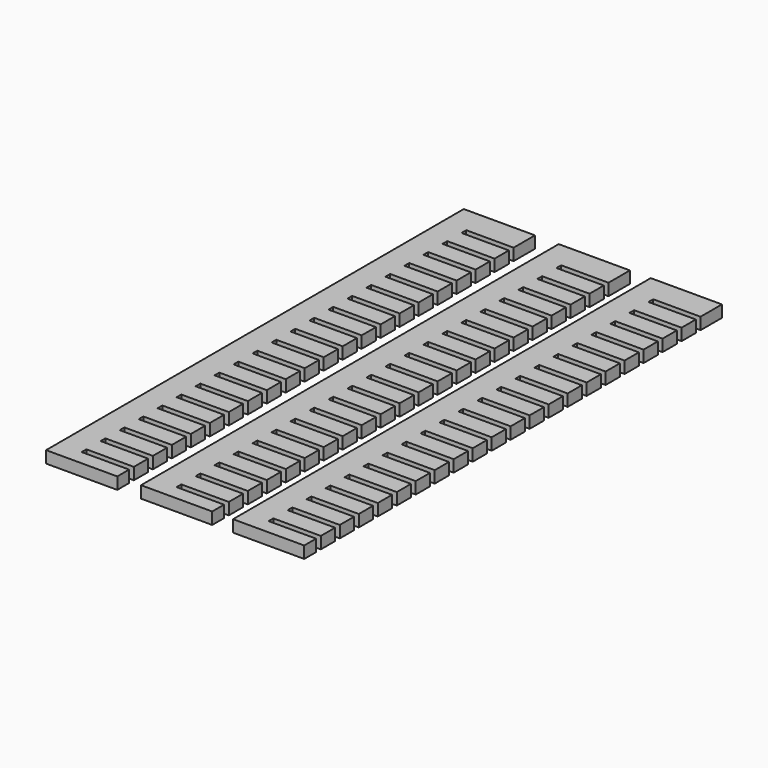
from build123d import *

# Parameters (mm, degrees)
F1_DEPTH = 3.175


with BuildPart() as f1:
    # F0 (on Top) → F1 (new body)
    with BuildSketch(Plane.XY):
        Polygon((0, 139.7), (0, 0), (19.05, 0), (19.05, 3.960731), (6.35, 3.960731), (6.35, 5.548231), (19.05, 5.548231), (19.05, 10.310731), (6.35, 10.310731), (6.35, 11.898231), (19.05, 11.898231), (19.05, 16.660731), (6.35, 16.660731), (6.35, 18.248231), (19.05, 18.248231), (19.05, 23.010731), (6.35, 23.010731), (6.35, 24.598231), (19.05, 24.598231), (19.05, 29.360731), (6.35, 29.360731), (6.35, 30.948231), (19.05, 30.948231), (19.05, 35.710731), (6.35, 35.710731), (6.35, 37.298231), (19.05, 37.298231), (19.05, 42.060731), (6.35, 42.060731), (6.35, 43.648231), (19.05, 43.648231), (19.05, 48.410731), (6.35, 48.410731), (6.35, 49.998231), (19.05, 49.998231), (19.05, 54.760731), (6.35, 54.760731), (6.35, 56.348231), (19.05, 56.348231), (19.05, 61.110731), (6.35, 61.110731), (6.35, 62.698231), (19.05, 62.698231), (19.05, 67.460731), (6.35, 67.460731), (6.35, 69.048231), (19.05, 69.048231), (19.05, 73.810731), (6.35, 73.810731), (6.35, 75.398231), (19.05, 75.398231), (19.05, 80.160731), (6.35, 80.160731), (6.35, 81.748231), (19.05, 81.748231), (19.05, 86.510731), (6.35, 86.510731), (6.35, 88.098231), (19.05, 88.098231), (19.05, 92.860731), (6.35, 92.860731), (6.35, 94.448231), (19.05, 94.448231), (19.05, 99.210731), (6.35, 99.210731), (6.35, 100.798231), (19.05, 100.798231), (19.05, 105.560731), (6.35, 105.560731), (6.35, 107.148231), (19.05, 107.148231), (19.05, 111.910731), (6.35, 111.910731), (6.35, 113.498231), (19.05, 113.498231), (19.05, 118.260731), (6.35, 118.260731), (6.35, 119.848231), (19.05, 119.848231), (19.05, 124.610709), (6.366796, 124.610709), (6.366796, 126.198209), (19.05, 126.198209), (19.05, 130.960687), (6.383592, 130.960687), (6.383592, 132.548187), (19.05, 132.548187), (19.05, 139.7), align=None)
        Polygon((25.4, 139.7), (25.4, 0), (44.45, 0), (44.45, 3.960731), (31.75, 3.960731), (31.75, 5.548231), (44.45, 5.548231), (44.45, 10.310731), (31.75, 10.310731), (31.75, 11.898231), (44.45, 11.898231), (44.45, 16.660731), (31.75, 16.660731), (31.75, 18.248231), (44.45, 18.248231), (44.45, 23.010731), (31.75, 23.010731), (31.75, 24.598231), (44.45, 24.598231), (44.45, 29.360731), (31.75, 29.360731), (31.75, 30.948231), (44.45, 30.948231), (44.45, 35.710731), (31.75, 35.710731), (31.75, 37.298231), (44.45, 37.298231), (44.45, 42.060731), (31.75, 42.060731), (31.75, 43.648231), (44.45, 43.648231), (44.45, 48.410731), (31.75, 48.410731), (31.75, 49.998231), (44.45, 49.998231), (44.45, 54.760731), (31.75, 54.760731), (31.75, 56.348231), (44.45, 56.348231), (44.45, 61.110731), (31.75, 61.110731), (31.75, 62.698231), (44.45, 62.698231), (44.45, 67.460731), (31.75, 67.460731), (31.75, 69.048231), (44.45, 69.048231), (44.45, 73.810731), (31.75, 73.810731), (31.75, 75.398231), (44.45, 75.398231), (44.45, 80.160731), (31.75, 80.160731), (31.75, 81.748231), (44.45, 81.748231), (44.45, 86.510731), (31.75, 86.510731), (31.75, 88.098231), (44.45, 88.098231), (44.45, 92.860731), (31.75, 92.860731), (31.75, 94.448231), (44.45, 94.448231), (44.45, 99.210731), (31.75, 99.210731), (31.75, 100.798231), (44.45, 100.798231), (44.45, 105.560731), (31.75, 105.560731), (31.75, 107.148231), (44.45, 107.148231), (44.45, 111.910731), (31.75, 111.910731), (31.75, 113.498231), (44.45, 113.498231), (44.45, 118.260731), (31.75, 118.260731), (31.75, 119.848231), (44.45, 119.848231), (44.45, 124.610709), (31.766796, 124.610709), (31.766796, 126.198209), (44.45, 126.198209), (44.45, 130.960687), (31.783592, 130.960687), (31.783592, 132.548187), (44.45, 132.548187), (44.45, 139.7), align=None)
        Polygon((50.020166, 139.7), (50.020166, 0), (69.070166, 0), (69.070166, 3.960731), (56.370166, 3.960731), (56.370166, 5.548231), (69.070166, 5.548231), (69.070166, 10.310731), (56.370166, 10.310731), (56.370166, 11.898231), (69.070166, 11.898231), (69.070166, 16.660731), (56.370166, 16.660731), (56.370166, 18.248231), (69.070166, 18.248231), (69.070166, 23.010731), (56.370166, 23.010731), (56.370166, 24.598231), (69.070166, 24.598231), (69.070166, 29.360731), (56.370166, 29.360731), (56.370166, 30.948231), (69.070166, 30.948231), (69.070166, 35.710731), (56.370166, 35.710731), (56.370166, 37.298231), (69.070166, 37.298231), (69.070166, 42.060731), (56.370166, 42.060731), (56.370166, 43.648231), (69.070166, 43.648231), (69.070166, 48.410731), (56.370166, 48.410731), (56.370166, 49.998231), (69.070166, 49.998231), (69.070166, 54.760731), (56.370166, 54.760731), (56.370166, 56.348231), (69.070166, 56.348231), (69.070166, 61.110731), (56.370166, 61.110731), (56.370166, 62.698231), (69.070166, 62.698231), (69.070166, 67.460731), (56.370166, 67.460731), (56.370166, 69.048231), (69.070166, 69.048231), (69.070166, 73.810731), (56.370166, 73.810731), (56.370166, 75.398231), (69.070166, 75.398231), (69.070166, 80.160731), (56.370166, 80.160731), (56.370166, 81.748231), (69.070166, 81.748231), (69.070166, 86.510731), (56.370166, 86.510731), (56.370166, 88.098231), (69.070166, 88.098231), (69.070166, 92.860731), (56.370166, 92.860731), (56.370166, 94.448231), (69.070166, 94.448231), (69.070166, 99.210731), (56.370166, 99.210731), (56.370166, 100.798231), (69.070166, 100.798231), (69.070166, 105.560731), (56.370166, 105.560731), (56.370166, 107.148231), (69.070166, 107.148231), (69.070166, 111.910731), (56.370166, 111.910731), (56.370166, 113.498231), (69.070166, 113.498231), (69.070166, 118.260731), (56.370166, 118.260731), (56.370166, 119.848231), (69.070166, 119.848231), (69.070166, 124.610709), (56.386962, 124.610709), (56.386962, 126.198209), (69.070166, 126.198209), (69.070166, 130.960687), (56.403758, 130.960687), (56.403758, 132.548187), (69.070166, 132.548187), (69.070166, 139.7), align=None)
    extrude(amount=F1_DEPTH)


solid = f1.part
